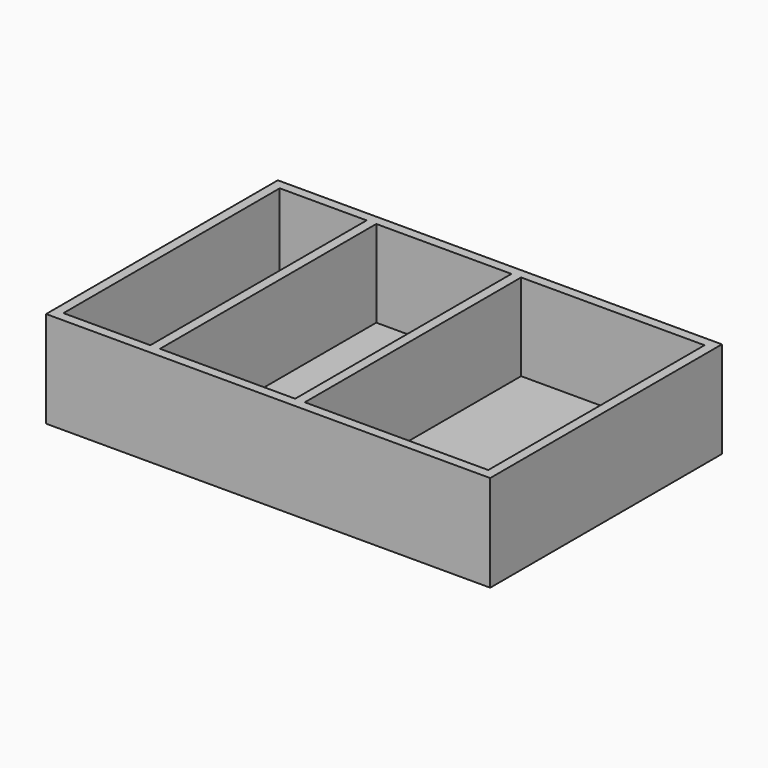
from build123d import *

# Parameters (mm, degrees)
F0_W     = 92
F0_H     = 60
F1_DEPTH = 20
F2_W     = 18
F2_H     = 56
F2_W_2   = 28
F2_W_3   = 38
F3_DEPTH = 18


with BuildPart() as f1:
    # F0 (on Top) → F1 (new body)
    with BuildSketch(Plane.XY):
        Rectangle(F0_W, F0_H)
    extrude(amount=F1_DEPTH)

    # F2 (on face) → F3 (cut)
    with BuildSketch(Plane.XY.offset(20)):
        with Locations((-35, 0)):
            Rectangle(F2_W, F2_H)
        with Locations((-10, 0)):
            Rectangle(F2_W_2, F2_H)
        with Locations((25, 0)):
            Rectangle(F2_W_3, F2_H)
    extrude(amount=-F3_DEPTH, mode=Mode.SUBTRACT)


solid = f1.part
